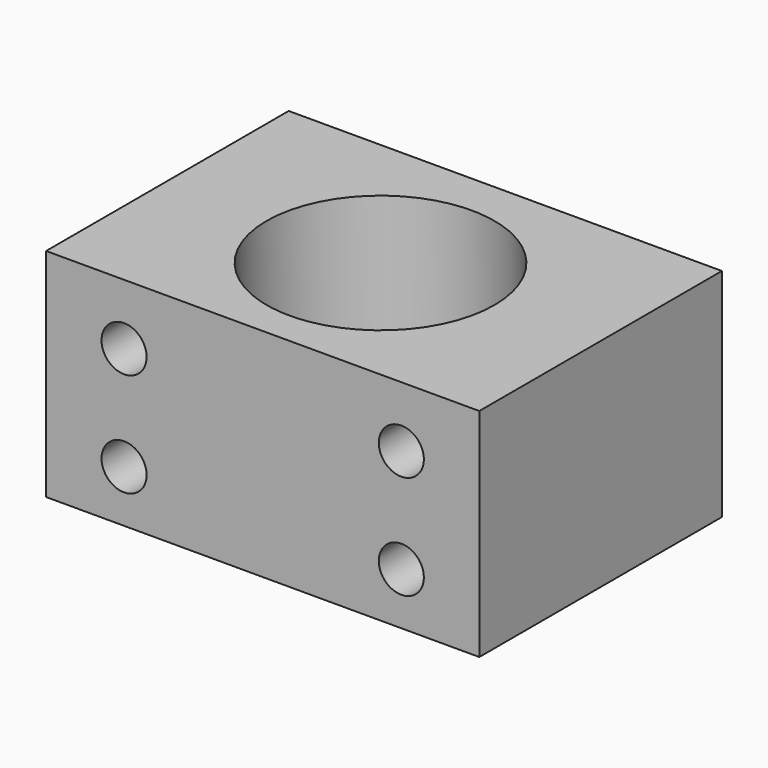
from build123d import *

# Parameters (mm, degrees)
SKETCH_W        = 50
SKETCH_H        = 35
SKETCH_R        = 6.5
PAD_DEPTH       = 25
SKETCH001_R     = 13.15
POCKET_DEPTH    = 16
SKETCH002_R     = 2.6
POCKET001_DEPTH = 35.001


with BuildPart() as part:
    # Sketch → Pad (new body)
    with BuildSketch(Plane.XY):
        with Locations((0, 0.5)):
            Rectangle(SKETCH_W, SKETCH_H)
        Circle(SKETCH_R, mode=Mode.SUBTRACT)
    extrude(amount=PAD_DEPTH)

    # Sketch001 (on Face7 of Pad) → Pocket (cut)
    with BuildSketch(Plane.XY.offset(25)):
        Circle(SKETCH001_R)
    extrude(amount=-POCKET_DEPTH, mode=Mode.SUBTRACT)

    # Sketch002 (on Face1 of Pocket) → Pocket001 (cut, through all)
    with BuildSketch(Plane(origin=(0, 18, 0), x_dir=(-1, 0, 0), z_dir=(0, 1, 0))):
        with Locations((-16, 6)):
            Circle(SKETCH002_R)
        with Locations((16, 6)):
            Circle(SKETCH002_R)
        with Locations((-16, 18)):
            Circle(SKETCH002_R)
        with Locations((16, 18)):
            Circle(SKETCH002_R)
    extrude(amount=-POCKET001_DEPTH, mode=Mode.SUBTRACT)


solid = part.part
